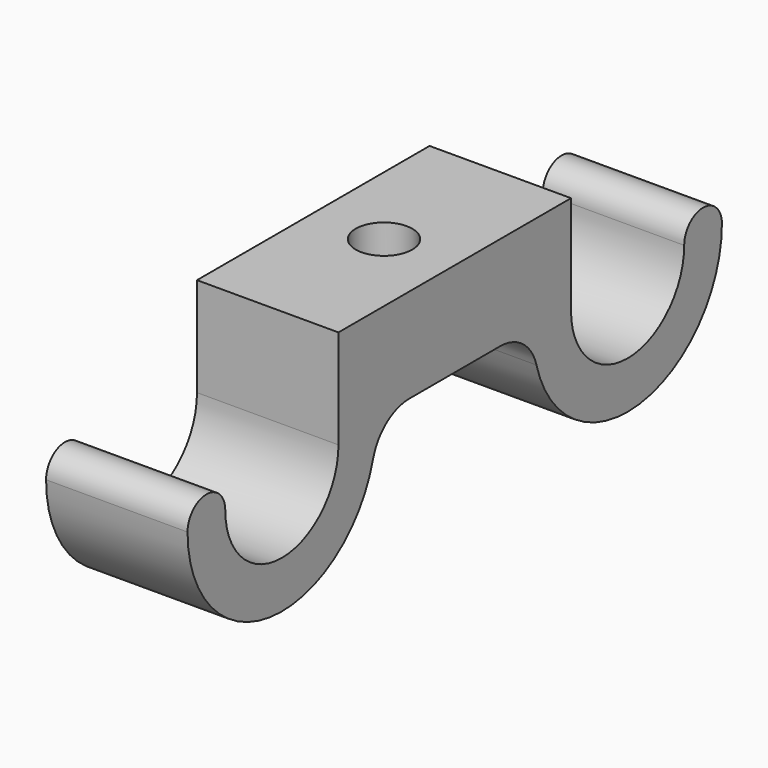
from build123d import *

# Parameters (mm, degrees)
F1_DEPTH = 15
F2_R     = 3
F3_DEPTH = 10


with BuildPart() as f1:
    # F0 (on Right) → F1 (new body)
    with BuildSketch(Plane.YZ):
        with BuildLine():
            Line((15.411535, 0), (-15.411535, 0))
            Line((-15.411535, 0), (-15.411535, -10.5))
            ThreePointArc((-15.411535, -10.5), (-22.911535, -18), (-30.411535, -10.5))
            ThreePointArc((-30.411535, -10.5), (-32.911535, -8), (-35.411535, -10.5))
            ThreePointArc((-35.411535, -10.5), (-24.532361, -22.894471), (-10.831867, -13.714286))
            ThreePointArc((-10.831867, -13.714286), (-9.047247, -11.035875), (-6, -10))
            Line((-6, -10), (6, -10))
            ThreePointArc((6, -10), (9.047247, -11.035875), (10.831867, -13.714286))
            ThreePointArc((10.831867, -13.714286), (24.532361, -22.894471), (35.411535, -10.5))
            ThreePointArc((35.411535, -10.5), (32.911535, -8), (30.411535, -10.5))
            ThreePointArc((30.411535, -10.5), (22.911535, -18), (15.411535, -10.5))
            Line((15.411535, -10.5), (15.411535, 0))
        make_face()
    extrude(amount=F1_DEPTH)

    # F2 (on face) → F3 (cut, through all)
    with BuildSketch(Plane(origin=(0, 0, -10), x_dir=(1, 0, 0), z_dir=(0, 0, -1))):
        with Locations((7.5, 0)):
            Circle(F2_R)
    extrude(amount=-F3_DEPTH, mode=Mode.SUBTRACT)


solid = f1.part
